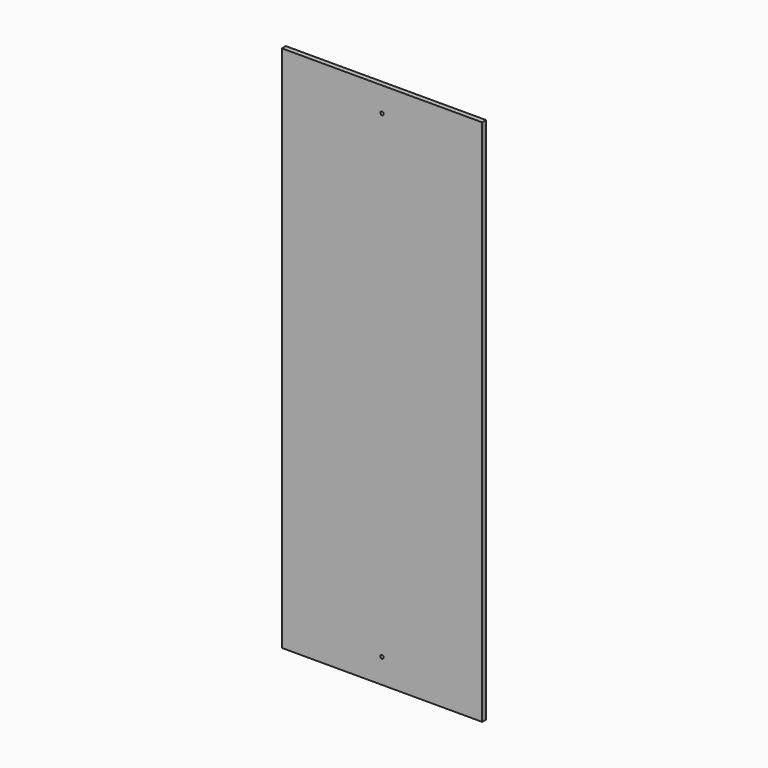
from build123d import *

# Parameters (mm, degrees)
F0_W     = 203
F0_H     = 535
F1_DEPTH = 5
F2_R     = 1.75
F3_DEPTH = 25


with BuildPart() as f1:
    # F0 (on Front) → F1 (new body)
    with BuildSketch(Plane.XZ):
        with Locations((101.5, 267.5)):
            Rectangle(F0_W, F0_H)
    extrude(amount=-F1_DEPTH)

    # F2 (on face) → F3 (cut)
    with BuildSketch(Plane.XZ):
        with Locations((101.5, 510)):
            Circle(F2_R)
        with Locations((101.5, 25)):
            Circle(F2_R)
    extrude(amount=-F3_DEPTH, mode=Mode.SUBTRACT)


solid = f1.part
